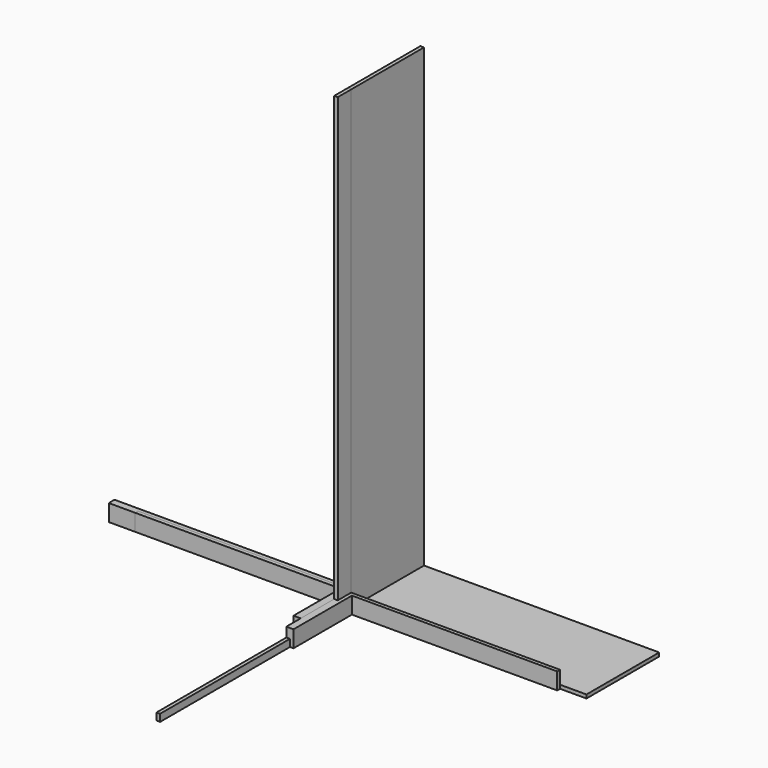
from build123d import *

# Parameters (mm, degrees)
F0_W      = 38.1
F0_H      = 88.9
F1_DEPTH  = 311.15
F2_W      = 38.1
F2_H      = 88.9
F3_DEPTH  = 1266.825
F4_W      = 482.6
F4_H      = 2438.4
F5_DEPTH  = 19.05
F6_W      = 38.1
F6_H      = 88.9
F7_DEPTH  = 406.4
F8_W      = 19.05
F8_H      = 88.9
F9_DEPTH  = 1127.125
F10_W     = 19.05
F10_H     = 88.9
F11_DEPTH = 2438.4
F12_W     = 95.25
F12_H     = 88.9
F13_DEPTH = 19.05
F14_W     = 1127.125
F14_H     = 88.9
F15_DEPTH = 19.05
F16_W     = 1266.825
F16_H     = 482.6
F17_DEPTH = 19.05
F18_W     = 19.05
F18_H     = 38.1
F19_DEPTH = 444.5
F20_W     = 19.05
F20_H     = 38.1
F21_DEPTH = 1266.825


with BuildPart() as f1:
    # F0 (on Front) → F1 (new body)
    with BuildSketch(Plane.XZ):
        with Locations((-19.05, 44.45)):
            Rectangle(F0_W, F0_H)
    extrude(amount=F1_DEPTH)


with BuildPart() as f3:
    # F2 (on Right) → F3 (new body)
    with BuildSketch(Plane.YZ):
        with Locations((19.05, 44.45)):
            Rectangle(F2_W, F2_H)
    extrude(amount=-F3_DEPTH)


with BuildPart() as f5:
    # F4 (on Right) → F5 (new body)
    with BuildSketch(Plane.YZ):
        with Locations((241.3, 1219.2)):
            Rectangle(F4_W, F4_H)
    extrude(amount=F5_DEPTH)


with BuildPart() as f7:
    # F6 (on Front) → F7 (new body)
    with BuildSketch(Plane.XZ):
        with Locations((19.05, 44.45)):
            Rectangle(F6_W, F6_H)
    extrude(amount=F7_DEPTH)


with BuildPart() as f9:
    # F8 (on Right) → F9 (new body)
    with BuildSketch(Plane.YZ):
        with Locations((9.525, 44.45)):
            Rectangle(F8_W, F8_H)
    extrude(amount=-F9_DEPTH)


with BuildPart() as f11:
    # F10 (on Top) → F11 (new body)
    with BuildSketch(Plane.XY):
        with Locations((9.525, -44.45)):
            Rectangle(F10_W, F10_H)
    extrude(amount=F11_DEPTH)


with BuildPart() as f13:
    # F12 (on Front) → F13 (new body)
    with BuildSketch(Plane.XZ):
        with Locations((47.625, 44.45)):
            Rectangle(F12_W, F12_H)
    extrude(amount=F13_DEPTH)


with BuildPart() as f15:
    # F14 (on Front) → F15 (new body)
    with BuildSketch(Plane.XZ):
        with Locations((563.5625, 44.45)):
            Rectangle(F14_W, F14_H)
    extrude(amount=F15_DEPTH)


with BuildPart() as f17:
    # F16 (on Top) → F17 (new body)
    with BuildSketch(Plane.XY):
        with Locations((633.4125, 241.3)):
            Rectangle(F16_W, F16_H)
    extrude(amount=F17_DEPTH)


with BuildPart() as f19:
    # F18 (on Front) → F19 (new body)
    with BuildSketch(Plane.XZ):
        with Locations((9.525, 19.05)):
            Rectangle(F18_W, F18_H)
    extrude(amount=F19_DEPTH)


with BuildPart() as f21:
    # F20 (on Front) → F21 (new body)
    with BuildSketch(Plane.XZ):
        with Locations((9.525, 19.05)):
            Rectangle(F20_W, F20_H)
    extrude(amount=F21_DEPTH)


solid = Compound([f1.part, f3.part, f5.part, f7.part, f9.part, f11.part, f13.part, f15.part, f17.part, f19.part, f21.part])
